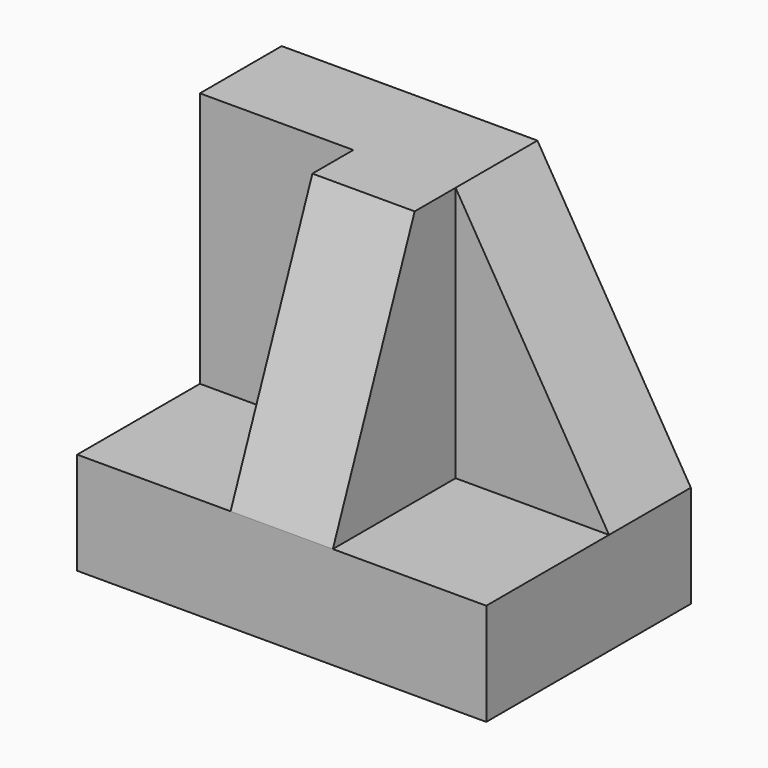
from build123d import *

# Parameters (mm, degrees)
F0_W     = 50.8
F0_H     = 44.45
F1_DEPTH = 31.75
F2_W     = 19.05
F2_H     = 31.75
F3_DEPTH = 19.05
F5_DEPTH = 12.7
F7_DEPTH = 12.7
F8_W     = 19.05
F8_H     = 31.75
F9_DEPTH = 19.05


with BuildPart() as f1:
    # F0 (on Front) → F1 (new body)
    with BuildSketch(Plane.XZ):
        with Locations((-44.0256018192, 39.4437830464)):
            Rectangle(F0_W, F0_H)
    extrude(amount=F1_DEPTH)

    # F2 (on face) → F3 (cut)
    with BuildSketch(Plane.YZ.offset(-18.6256018192)):
        with Locations((-22.225, 45.7937830464)):
            Rectangle(F2_W, F2_H)
    extrude(amount=-F3_DEPTH, mode=Mode.SUBTRACT)

    # F4 (on face) → F5 (cut)
    with BuildSketch(Plane(origin=(0, 0, 0), x_dir=(-1, 0, 0), z_dir=(0, 1, 0))):
        Polygon((18.6256018192, 29.9187830464), (37.6756018192, 61.6687830464), (18.6256018192, 61.6687830464), align=None)
    extrude(amount=-F5_DEPTH, mode=Mode.SUBTRACT)

    # F6 (on face) → F7 (cut)
    with BuildSketch(Plane.YZ.offset(-37.6756018192)):
        Polygon((-31.75, 29.9187830464), (-19.05, 61.6687830464), (-31.75, 61.6687830464), align=None)
    extrude(amount=-F7_DEPTH, mode=Mode.SUBTRACT)

    # F8 (on face) → F9 (cut)
    with BuildSketch(Plane(origin=(-69.4256018192, 0, 0), x_dir=(0, -1, 0), z_dir=(-1, 0, 0))):
        with Locations((22.225, 45.7937830464)):
            Rectangle(F8_W, F8_H)
    extrude(amount=-F9_DEPTH, mode=Mode.SUBTRACT)


solid = f1.part
